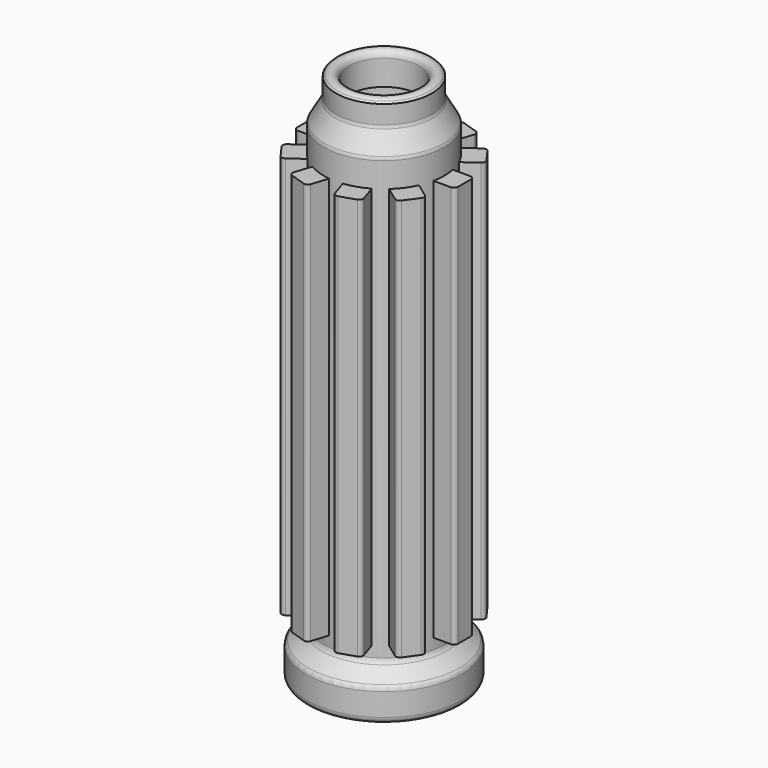
from build123d import *

# Parameters (mm, degrees)
F2_R     = 1.6
F4_W     = 6
F4_H     = 100
F6_R     = 1
F7_COUNT = 10


with BuildPart() as f1:
    # F0 (on Front) → F1 (revolve)
    with BuildSketch(Plane.XZ):
        with BuildLine():
            Line((8.75, 135), (8.75, 125))
            Line((8.75, 125), (10.75, 125))
            Line((10.75, 125), (10.75, 0))
            Line((10.75, 0), (19.325, 0))
            Line((19.325, 0), (19.325, 8))
            Line((19.325, 8), (15, 11.6291059048))
            Line((15, 11.6291059048), (15, 121.6291059048))
            Line((15, 121.6291059048), (11.8991128484, 127))
            Line((11.8991128484, 127), (11.8991128484, 132))
            ThreePointArc((11.8991128484, 132), (10.3608222574, 133.5380684005), (8.75, 135))
        make_face()
    revolve(axis=Axis((0, 0, 16.0293497074), (0, 0, 1)))

    # F2
    f2_edges = [f1.edges().sort_by_distance(p)[0] for p in [
        (-8.75, 0, 135),
        (-15, 0, 121.629106),
        (-11.899113, 0, 127),
        (-15, 0, 11.629106),
        (-19.325, 0, 8),
        (-19.325, 0, 0),
    ]]
    fillet(f2_edges, radius=F2_R)


with BuildPart() as f5:
    # F4 (on offset) → F5 (new body, up to the next surface of F1)
    with BuildSketch(Plane.YZ.offset(20)):
        with Locations((0, 65)):
            Rectangle(F4_W, F4_H)
    extrude(until=Until.NEXT, target=f1.part, dir=(-1, 0, 0))

    # F6
    f6_edges = [f5.edges().sort_by_distance(p)[0] for p in [
        (20, -3, 65),
        (20, 3, 65),
    ]]
    fillet(f6_edges, radius=F6_R)


with BuildPart() as f7_1:
    # F7: instance of F5
    add(f5.part.rotate(Axis((0, 0, 11.6291059048), (0, 0, 1)), 1 * 360 / F7_COUNT))


with BuildPart() as f7_2:
    # F7: instance of F5
    add(f5.part.rotate(Axis((0, 0, 11.6291059048), (0, 0, 1)), 2 * 360 / F7_COUNT))


with BuildPart() as f7_3:
    # F7: instance of F5
    add(f5.part.rotate(Axis((0, 0, 11.6291059048), (0, 0, 1)), 3 * 360 / F7_COUNT))


with BuildPart() as f7_4:
    # F7: instance of F5
    add(f5.part.rotate(Axis((0, 0, 11.6291059048), (0, 0, 1)), 4 * 360 / F7_COUNT))


with BuildPart() as f7_5:
    # F7: instance of F5
    add(f5.part.rotate(Axis((0, 0, 11.6291059048), (0, 0, 1)), 5 * 360 / F7_COUNT))


with BuildPart() as f7_6:
    # F7: instance of F5
    add(f5.part.rotate(Axis((0, 0, 11.6291059048), (0, 0, 1)), 6 * 360 / F7_COUNT))


with BuildPart() as f7_7:
    # F7: instance of F5
    add(f5.part.rotate(Axis((0, 0, 11.6291059048), (0, 0, 1)), 7 * 360 / F7_COUNT))


with BuildPart() as f7_8:
    # F7: instance of F5
    add(f5.part.rotate(Axis((0, 0, 11.6291059048), (0, 0, 1)), 8 * 360 / F7_COUNT))


with BuildPart() as f7_9:
    # F7: instance of F5
    add(f5.part.rotate(Axis((0, 0, 11.6291059048), (0, 0, 1)), 9 * 360 / F7_COUNT))


solid = Compound([f1.part, f5.part, f7_1.part, f7_2.part, f7_3.part, f7_4.part, f7_5.part, f7_6.part, f7_7.part, f7_8.part, f7_9.part])
